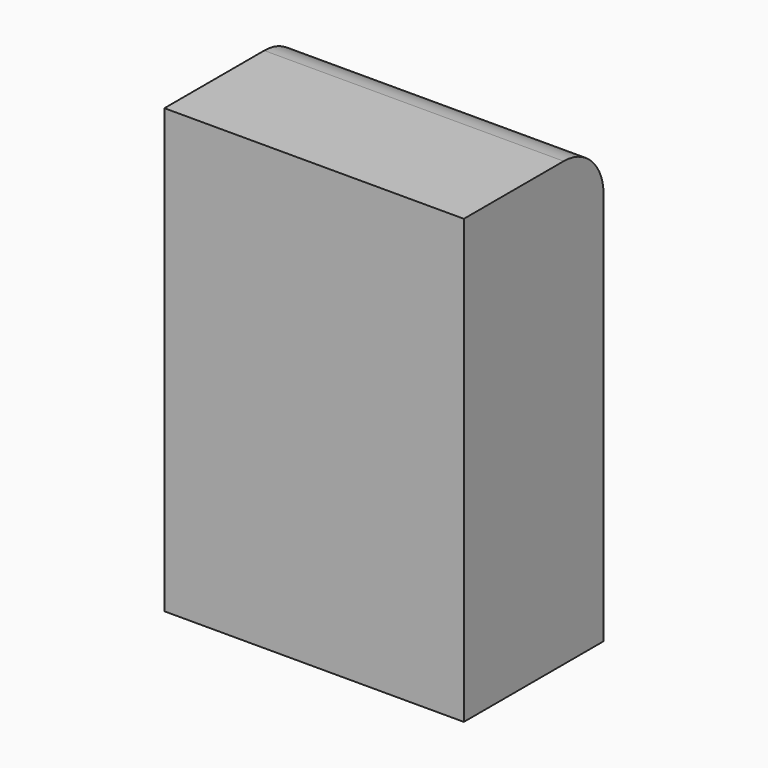
from build123d import *

# Parameters (mm, degrees)
F1_DEPTH = 609.6


with BuildPart() as f1:
    # F0 (on Right) → F1 (new body)
    with BuildSketch(Plane.YZ):
        with BuildLine():
            Line((-355.6, 0), (0, 0))
            Line((0, 0), (0, 800.1))
            ThreePointArc((0, 800.1), (-29.757951, 871.942049), (-101.6, 901.7))
            Line((-101.6, 901.7), (-355.6, 901.7))
            Line((-355.6, 901.7), (-355.6, 0))
        make_face()
    extrude(amount=F1_DEPTH)


solid = f1.part
